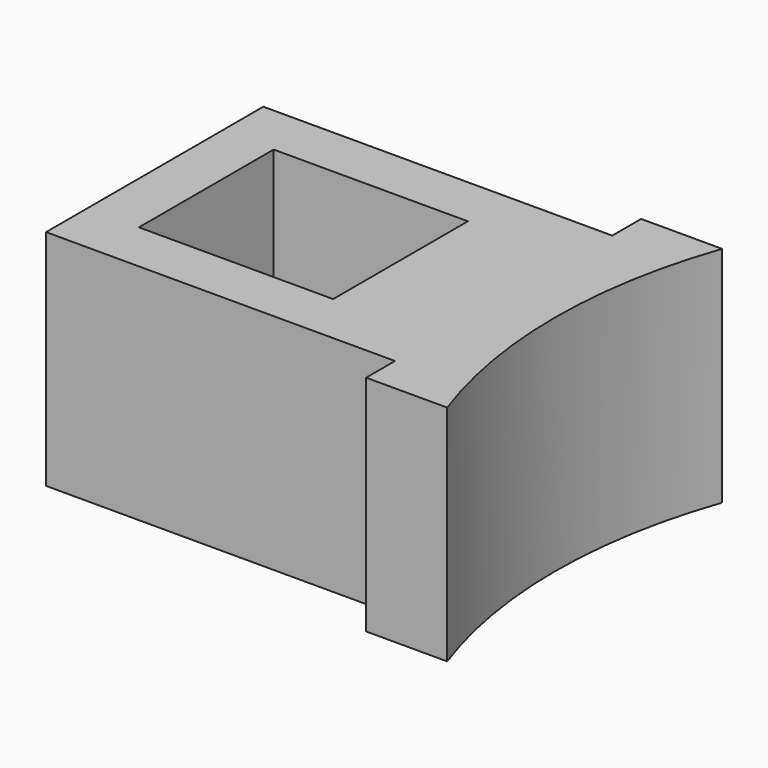
from build123d import *

# Parameters (mm, degrees)
F0_W     = 25
F0_H     = 20
F1_DEPTH = 13
F2_W     = 11.3
F2_H     = 9.8
F3_DEPTH = 11
F4_W     = 20.3
F4_H     = 2.1
F5_DEPTH = 25
F6_R     = 30
F7_DEPTH = 25


with BuildPart() as f1:
    # F0 (on Top) → F1 (new body)
    with BuildSketch(Plane.XY):
        with Locations((-30.473944, -4.285119)):
            Rectangle(F0_W, F0_H)
    extrude(amount=F1_DEPTH)

    # F2 (on face) → F3 (cut)
    with BuildSketch(Plane.XY.offset(13)):
        with Locations((-34.323944, -4.285119)):
            Rectangle(F2_W, F2_H)
    extrude(amount=-F3_DEPTH, mode=Mode.SUBTRACT)

    # F4 (on face) → F5 (cut)
    with BuildSketch(Plane.XY.offset(13)):
        with Locations((-32.823944, 4.664881)):
            Rectangle(F4_W, F4_H)
        with Locations((-32.823944, -13.235119)):
            Rectangle(F4_W, F4_H)
    extrude(amount=-F5_DEPTH, mode=Mode.SUBTRACT)

    # F6 (on face) → F7 (cut)
    with BuildSketch(Plane.XY.offset(13)):
        with Locations((10.326056, -4.285119)):
            Circle(F6_R)
    extrude(amount=-F7_DEPTH, mode=Mode.SUBTRACT)


solid = f1.part
